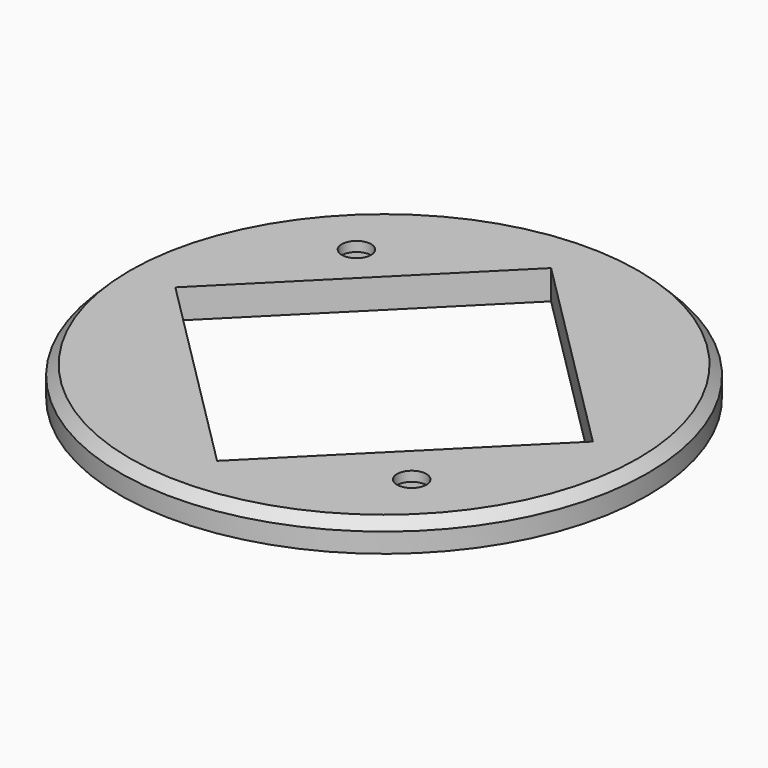
from build123d import *

# Parameters (mm, degrees)
BOX318_W                    = 6
BOX318_H                    = 6
BOX318_DEPTH                = 20
BOX318_PLACEMENT_ANGLE      = 45
BOX319_W                    = 6
BOX319_H                    = 6
BOX319_DEPTH                = 20
BOX319_PLACEMENT_ANGLE      = 135
CYLINDER809_R               = 1.5
CYLINDER809_DEPTH           = 20
CYLINDER809_PLACEMENT_ANGLE = 135
CYLINDER808_R               = 1.5
CYLINDER808_DEPTH           = 20
CYLINDER808_PLACEMENT_ANGLE = 45
BOX315_W                    = 30.2
BOX315_H                    = 30.2
BOX315_DEPTH                = 100
BOX315_PLACEMENT_ANGLE      = 45
CYLINDER805_R               = 27
CYLINDER805_DEPTH           = 3
CHAMFER_SIZE                = 1


with BuildPart() as krychle318:
    # Box318 → Box318 (new body)
    with BuildSketch(Plane.XY):
        with Locations((3, 3)):
            Rectangle(BOX318_W, BOX318_H)
    extrude(amount=BOX318_DEPTH)


with BuildPart() as krychle318_1:
    # Box318 placement: moved
    add(krychle318.part.moved(Location((9.899495, -14.142136, -30))).rotate(Axis((9.899495, -14.142136, -30), (0, 0, -1)), BOX318_PLACEMENT_ANGLE))


with BuildPart() as compound722:
    # Box319 → Box319 (new body)
    with BuildSketch(Plane.XY):
        with Locations((3, 3)):
            Rectangle(BOX319_W, BOX319_H)
    extrude(amount=BOX319_DEPTH)


with BuildPart() as compound722_1:
    # Box319 placement: moved
    add(compound722.part.moved(Location((-9.899495, 14.142136, -30))).rotate(Axis((-9.899495, 14.142136, -30), (0, 0, 1)), BOX319_PLACEMENT_ANGLE))

    # Compound722: union Krychle318
    add(krychle318_1.part)


with BuildPart() as compound722_2:
    # Compound722 placement: moved
    add(compound722_1.part.moved(Location((0, 0, -13))))


with BuildPart() as obj1:
    # Cylinder809 → Cylinder809 (new body)
    with BuildSketch(Plane.XY):
        Circle(CYLINDER809_R)
    extrude(amount=CYLINDER809_DEPTH)


with BuildPart() as obj1_1:
    # Cylinder809 placement: moved
    add(obj1.part.moved(Location((-14.142136, 14.142136, -30))).rotate(Axis((-14.142136, 14.142136, -30), (0, 0, 1)), CYLINDER809_PLACEMENT_ANGLE))


with BuildPart() as compound:
    # Cylinder808 → Cylinder808 (new body)
    with BuildSketch(Plane.XY):
        Circle(CYLINDER808_R)
    extrude(amount=CYLINDER808_DEPTH)


with BuildPart() as compound_1:
    # Cylinder808 placement: moved
    add(compound.part.moved(Location((14.142136, -14.142136, -30))).rotate(Axis((14.142136, -14.142136, -30), (0, 0, -1)), CYLINDER808_PLACEMENT_ANGLE))

    # Compound: union obj1
    add(obj1_1.part)


with BuildPart() as krychle315:
    # Box315 → Box315 (new body)
    with BuildSketch(Plane.XY):
        with Locations((15.1, 15.1)):
            Rectangle(BOX315_W, BOX315_H)
    extrude(amount=BOX315_DEPTH)


with BuildPart() as krychle315_1:
    # Box315 placement: moved
    add(krychle315.part.moved(Location((0, -21.354625, -30))).rotate(Axis((0, -21.354625, -30), (0, 0, 1)), BOX315_PLACEMENT_ANGLE))


with BuildPart() as cut344:
    # Cylinder805 → Cylinder805 (new body)
    with BuildSketch(Plane.XY.offset(-25)):
        Circle(CYLINDER805_R)
    extrude(amount=CYLINDER805_DEPTH)

    # Chamfer
    chamfer_edges = [cut344.edges().sort_by_distance(p)[0] for p in [
        (-27, 0, -22),
    ]]
    chamfer(chamfer_edges, length=CHAMFER_SIZE)

    # Cut340: cut Krychle315
    add(krychle315_1.part, mode=Mode.SUBTRACT)

    # Cut342: cut Compound
    add(compound_1.part, mode=Mode.SUBTRACT)

    # Cut344: cut Compound722
    add(compound722_2.part, mode=Mode.SUBTRACT)


solid = cut344.part
